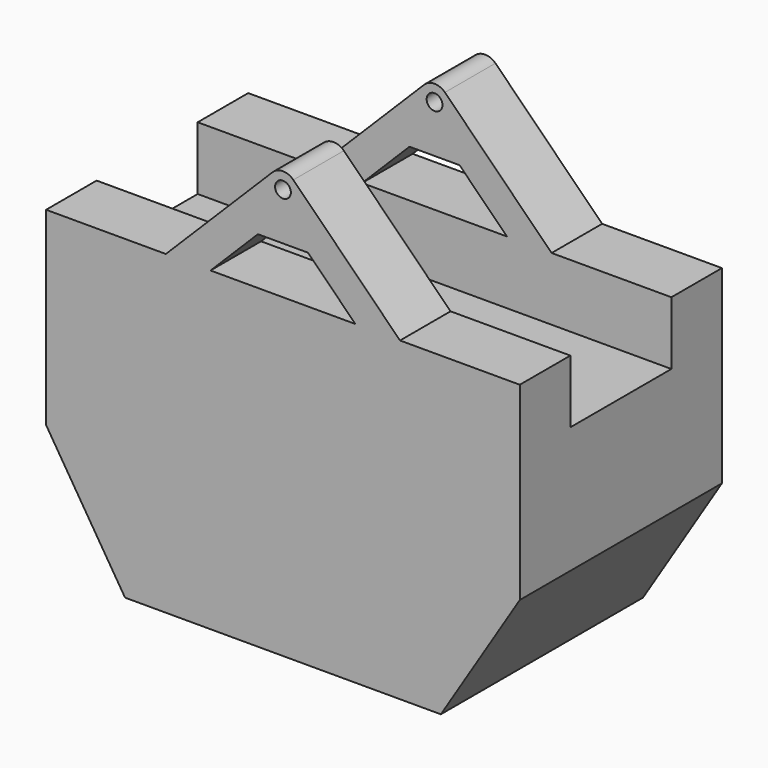
from build123d import *

# Parameters (mm, degrees)
F1_DEPTH = 400
F2_R     = 25
F3_DEPTH = 400
F5_DEPTH = 1500


with BuildPart() as f1:
    # F0 (on Front) → F1 (new body, symmetric)
    with BuildSketch(Plane.XZ):
        Polygon((750, 0), (-750, 0), (-750, -600), (-500, -1000), (500, -1000), (750, -600), align=None)
    extrude(amount=F1_DEPTH, both=True)

    # F2 (on Front) → F3 (join, symmetric)
    with BuildSketch(Plane.XZ):
        with BuildLine():
            Line((-32.921014, 337.789664), (-455.401369, -84.690691))
            ThreePointArc((-455.401369, -84.690691), (-460.755214, -158.795816), (-386.474404, -157.185082))
            Line((-386.474404, -157.185082), (-79.289322, 150))
            Line((-79.289322, 150), (0, 150))
            Line((0, 150), (79.289322, 150))
            Line((79.289322, 150), (386.474404, -157.185082))
            ThreePointArc((386.474404, -157.185082), (460.755214, -158.795816), (455.401369, -84.690691))
            Line((455.401369, -84.690691), (32.921014, 337.789664))
            ThreePointArc((32.921014, 337.789664), (0, 351.28622), (-32.921014, 337.789664))
        make_face()
        with Locations((0, 300)):
            Circle(F2_R, mode=Mode.SUBTRACT)
    extrude(amount=F3_DEPTH, both=True)

    # F4 (on face) → F5 (cut)
    with BuildSketch(Plane.YZ.offset(750)):
        Polygon((200, 500), (-200, 500), (-200, 0), (-200, -200), (200, -200), (200, 0), align=None)
    extrude(amount=-F5_DEPTH, mode=Mode.SUBTRACT)


solid = f1.part
